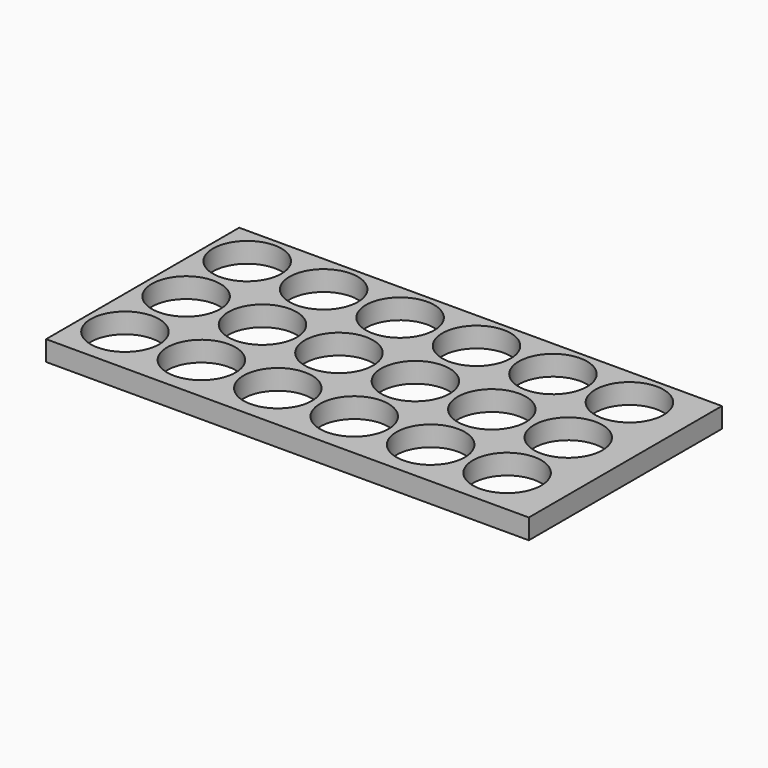
from build123d import *

# Parameters (mm, degrees)
F0_W     = 609.6
F0_H     = 304.8
F0_R     = 43.18
F1_DEPTH = 25.4


with BuildPart() as f1:
    # F0 (on Top) → F1 (new body)
    with BuildSketch(Plane.XY):
        Rectangle(F0_W, F0_H)
        with Locations((-254, -91.44)):
            Circle(F0_R, mode=Mode.SUBTRACT)
        with Locations((-157.48, -91.44)):
            Circle(F0_R, mode=Mode.SUBTRACT)
        with Locations((-60.96, -91.44)):
            Circle(F0_R, mode=Mode.SUBTRACT)
        with Locations((35.56, -91.44)):
            Circle(F0_R, mode=Mode.SUBTRACT)
        with Locations((132.08, -91.44)):
            Circle(F0_R, mode=Mode.SUBTRACT)
        with Locations((228.6, -91.44)):
            Circle(F0_R, mode=Mode.SUBTRACT)
        with Locations((-254, 5.08)):
            Circle(F0_R, mode=Mode.SUBTRACT)
        with Locations((-157.48, 5.08)):
            Circle(F0_R, mode=Mode.SUBTRACT)
        with Locations((-60.96, 5.08)):
            Circle(F0_R, mode=Mode.SUBTRACT)
        with Locations((-254, 101.6)):
            Circle(F0_R, mode=Mode.SUBTRACT)
        with Locations((-157.48, 101.6)):
            Circle(F0_R, mode=Mode.SUBTRACT)
        with Locations((-60.96, 101.6)):
            Circle(F0_R, mode=Mode.SUBTRACT)
        with Locations((35.56, 5.08)):
            Circle(F0_R, mode=Mode.SUBTRACT)
        with Locations((132.08, 5.08)):
            Circle(F0_R, mode=Mode.SUBTRACT)
        with Locations((228.6, 5.08)):
            Circle(F0_R, mode=Mode.SUBTRACT)
        with Locations((35.56, 101.6)):
            Circle(F0_R, mode=Mode.SUBTRACT)
        with Locations((132.08, 101.6)):
            Circle(F0_R, mode=Mode.SUBTRACT)
        with Locations((228.6, 101.6)):
            Circle(F0_R, mode=Mode.SUBTRACT)
    extrude(amount=F1_DEPTH)


solid = f1.part
